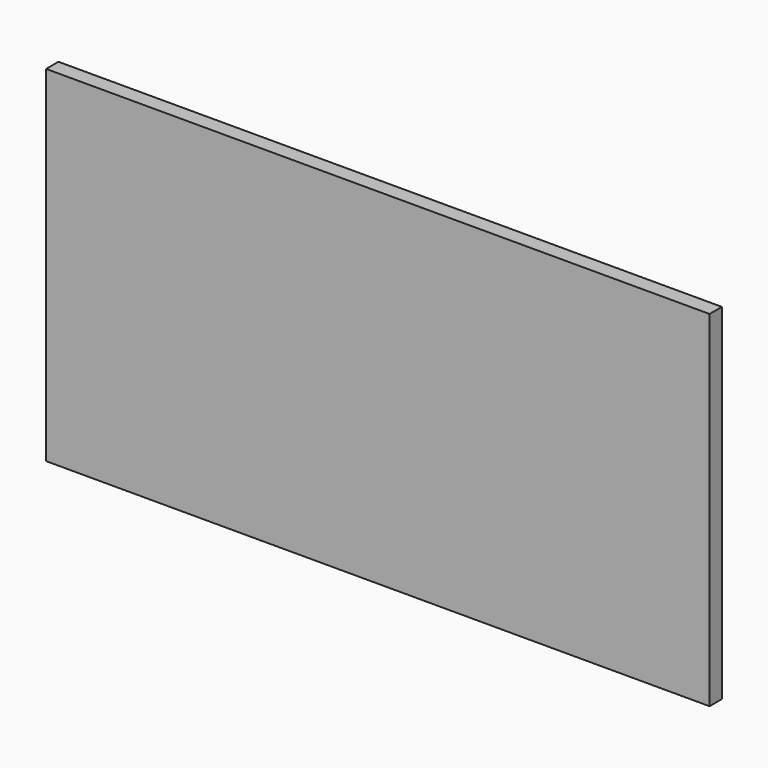
from build123d import *

# Parameters (mm, degrees)
F0_W     = 273.05
F0_H     = 142.113
F1_DEPTH = 6.35
F2_DEPTH = 6.35


with BuildPart() as f1:
    # F0 (on Front) → F1 (new body)
    with BuildSketch(Plane.XZ):
        with Locations((0, 5.1435)):
            Rectangle(F0_W, F0_H)
    extrude(amount=F1_DEPTH)

    # F0 (on Front) → F2 (join)
    with BuildSketch(Plane.XZ):
        with Locations((0, 5.1435)):
            Rectangle(F0_W, F0_H)
    extrude(amount=F2_DEPTH)


solid = f1.part
